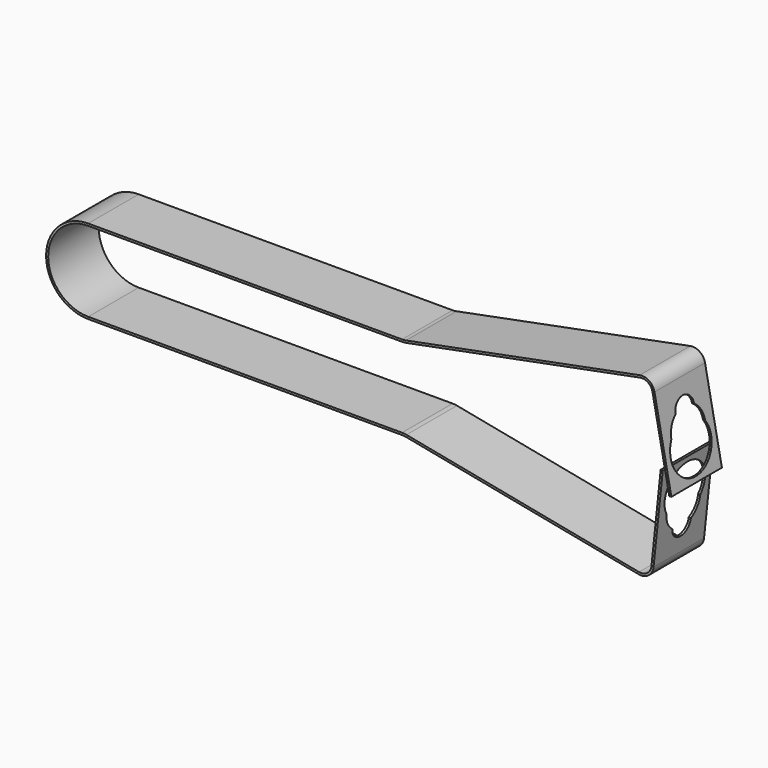
from build123d import *

# Parameters (mm, degrees)
F1_DEPTH = 15
F3_DEPTH = 0.5
F5_DEPTH = 1


with BuildPart() as f1:
    # F0 (on Front) → F1 (new body)
    with BuildSketch(Plane.XZ):
        with BuildLine():
            Line((-0.481445241, 10), (-75, 10))
            ThreePointArc((-75, 10), (-85, 0), (-75, -10))
            Line((-75, -10), (-0.481445241, -10))
            ThreePointArc((-0.481445241, -10), (-0.0022164784, -10.0230190082), (0.4725997359, -10.0918640828))
            Line((0.4725997359, -10.0918640828), (55.6838567363, -20.8238452864))
            ThreePointArc((55.6838567363, -20.8238452864), (58.0407520827, -20.2905343179), (59.2398494086, -18.1925491258))
            Line((59.2398494086, -18.1925491258), (61.4349471372, 2.6924106769))
            Line((61.4349471372, 2.6924106769), (60.9376861895, 2.7446749085))
            Line((60.9376861895, 2.7446749085), (58.7425884609, -18.1402848942))
            ThreePointArc((58.7425884609, -18.1402848942), (57.7433406893, -19.8886058876), (55.779261234, -20.3330316947))
            Line((55.779261234, -20.3330316947), (0.5680042336, -9.601050491))
            ThreePointArc((0.5680042336, -9.601050491), (0.0457063979, -9.525320909), (-0.481445241, -9.5))
            Line((-0.481445241, -9.5), (-75, -9.5))
            ThreePointArc((-75, -9.5), (-84.5, 0), (-75, 9.5))
            Line((-75, 9.5), (-0.481445241, 9.5))
            ThreePointArc((-0.481445241, 9.5), (0.0457063979, 9.525320909), (0.5680042336, 9.601050491))
            Line((0.5680042336, 9.601050491), (56.0481539542, 20.3852991447))
            ThreePointArc((56.0481539542, 20.3852991447), (57.9231587013, 20.0038251175), (58.9792444013, 18.4082536746))
            Line((58.9792444013, 18.4082536746), (62.9862333042, -2.2059171778))
            Line((62.9862333042, -2.2059171778), (63.4770468959, -2.1105126802))
            Line((63.4770468959, -2.1105126802), (59.470057993, 18.5036581722))
            ThreePointArc((59.470057993, 18.5036581722), (58.2027551531, 20.4183439038), (55.9527494565, 20.8761127365))
            Line((55.9527494565, 20.8761127365), (0.4725997359, 10.0918640828))
            ThreePointArc((0.4725997359, 10.0918640828), (-0.0022164784, 10.0230190082), (-0.481445241, 10))
        make_face()
    extrude(amount=F1_DEPTH)

    # F2 (on face) → F3 (cut)
    with BuildSketch(Plane(origin=(60.7706639739, 0, 11.8126204498), x_dir=(0, 1, 0), z_dir=(0.9816271834, 0, 0.1908089954))):
        with BuildLine():
            ThreePointArc((-4.75, 0.4920951066), (-7.5, 3.2420951066), (-10.25, 0.4920951066))
            ThreePointArc((-10.25, 0.4920951066), (-11.9017042154, -1.3120199204), (-12.5, -3.6837281655))
            ThreePointArc((-12.5, -3.6837281655), (-7.5, -13.0003529559), (-2.5, -3.6837281655))
            ThreePointArc((-2.5, -3.6837281655), (-3.0982957846, -1.3120199204), (-4.75, 0.4920951066))
        make_face()
    extrude(amount=-F3_DEPTH, mode=Mode.SUBTRACT)

    # F4 (on face) → F5 (cut)
    with BuildSketch(Plane(origin=(60.4838048122, 0, -6.3571040507), x_dir=(0, 1, 0), z_dir=(0.9945218954, 0, -0.1045284633))):
        with BuildLine():
            ThreePointArc((-2.5, -1.4006380153), (-7.5, 7.915986775), (-12.5, -1.4006380153))
            ThreePointArc((-12.5, -1.4006380153), (-11.9017042154, -3.7723462605), (-10.25, -5.5764612875))
            ThreePointArc((-10.25, -5.5764612875), (-7.5, -8.3264612875), (-4.75, -5.5764612875))
            ThreePointArc((-4.75, -5.5764612875), (-3.0982957846, -3.7723462605), (-2.5, -1.4006380153))
        make_face()
    extrude(amount=-F5_DEPTH, mode=Mode.SUBTRACT)


solid = f1.part
